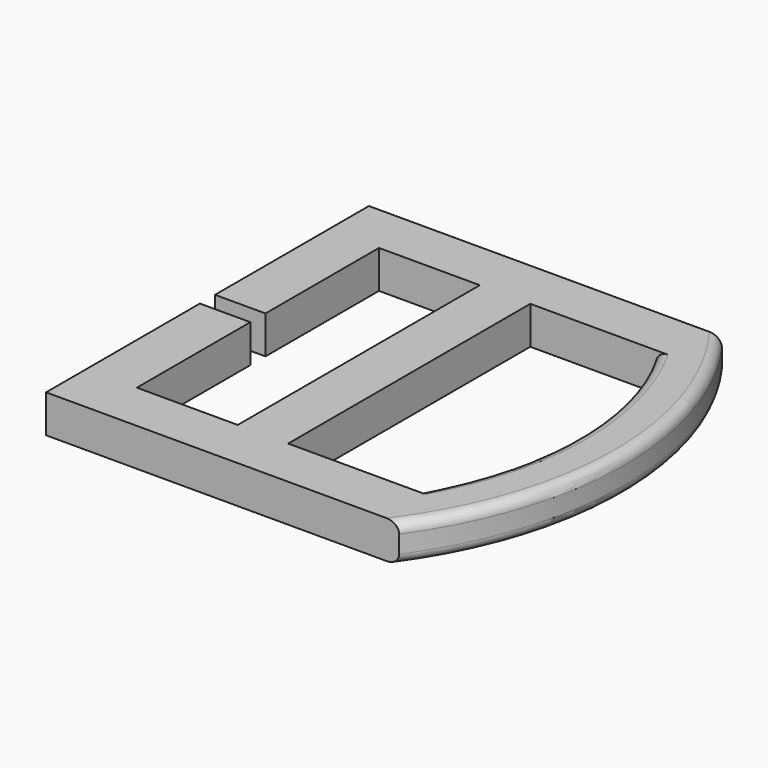
from build123d import *

# Parameters (mm, degrees)
PAD_DEPTH = 3
FILLET_R  = 0.8


with BuildPart() as part:
    # Sketch → Pad (new body)
    with BuildSketch(Plane.XY):
        with BuildLine():
            Line((-4, 12), (4, 12))
            Line((4, 12), (4, -12))
            Line((4, -12), (-4, -12))
            Line((-4, -0.75), (-4, -12))
            Line((-8, -0.75), (-4, -0.75))
            Line((-8, -16), (-8, -0.75))
            Line((-8, -16), (20, -16))
            ThreePointArc((20, -16), (25.108875, 0), (20, 16))
            Line((20, 16), (-8, 16))
            Line((-8, 16), (-8, 0.75))
            Line((-8, 0.75), (-4, 0.75))
            Line((-4, 0.75), (-4, 12))
        make_face()
        with BuildLine():
            Line((8, 12), (8, -12))
            Line((8, -12), (18, -12))
            ThreePointArc((18, -12), (21.253947, 0), (18, 12))
            Line((8, 12), (18, 12))
        make_face(mode=Mode.SUBTRACT)
    extrude(amount=PAD_DEPTH)

    # Fillet
    fillet_edges = [part.edges().sort_by_distance(p)[0] for p in [
        (21.253947, 0, 3),
        (25.108875, 0, 3),
        (25.108875, 0, 0),
        (21.253947, 0, 0),
    ]]
    fillet(fillet_edges, radius=FILLET_R)


solid = part.part
